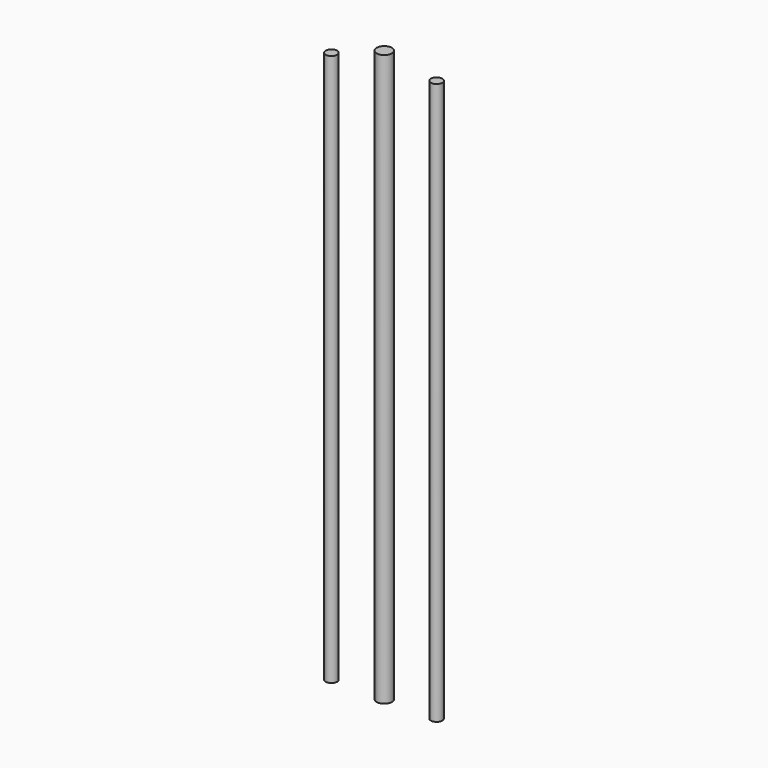
from build123d import *

# Parameters (mm, degrees)
F0_R     = 4
F1_DEPTH = 300
F0_R_2   = 3
F2_DEPTH = 290
F3_DEPTH = 295


with BuildPart() as f1:
    # F0 (on Top) → F1 (new body)
    with BuildSketch(Plane.XY):
        Circle(F0_R)
    extrude(amount=F1_DEPTH)


with BuildPart() as f2:
    # F0 (on Top) → F2 (new body)
    with BuildSketch(Plane.XY):
        with Locations((-27.772063, 0)):
            Circle(F0_R_2)
    extrude(amount=F2_DEPTH)


with BuildPart() as f3:
    # F0 (on Top) → F3 (new body)
    with BuildSketch(Plane.XY):
        with Locations((27.454717, 0)):
            Circle(F0_R_2)
    extrude(amount=F3_DEPTH)


solid = Compound([f1.part, f2.part, f3.part])
